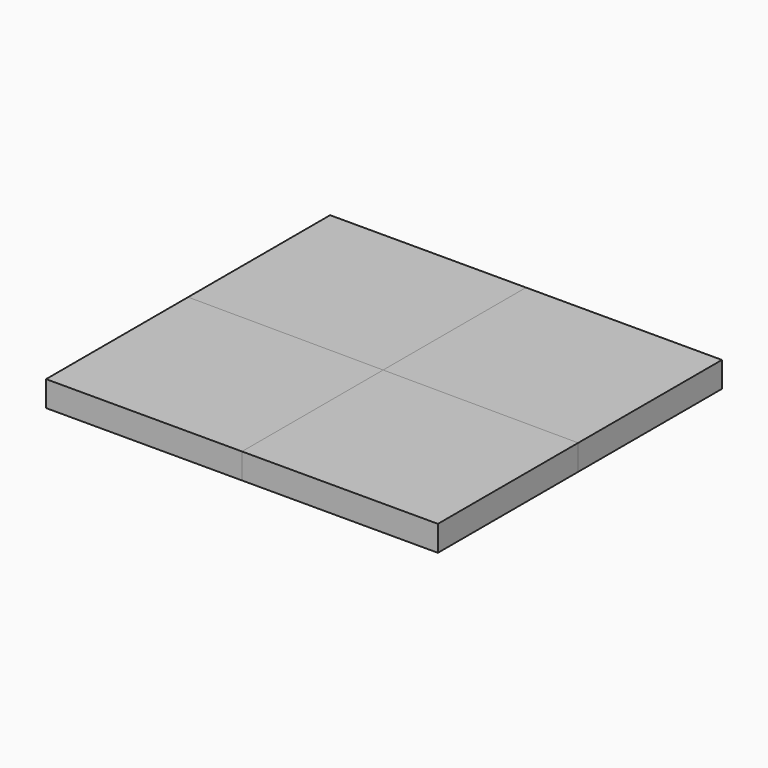
from build123d import *

# Parameters (mm, degrees)
F1_DEPTH = 6.35
F2_DEPTH = 6.35


with BuildPart() as f1:
    # F0 (on Top) → F1 (new body)
    with BuildSketch(Plane.XY):
        Polygon((0.808179, 44.719391), (-47.952123, 44.719391), (-47.952123, 0.538785), (0.808179, 0.269393), align=None)
        Polygon((49.568482, 0), (0.808179, 0.269393), (0.808179, -43.641821), (49.568482, -43.641821), align=None)
    extrude(amount=F1_DEPTH)


with BuildPart() as f2:
    # F0 (on Top) → F2 (new body)
    with BuildSketch(Plane.XY):
        Polygon((0.808179, 0.269393), (-47.952123, 0.538785), (-47.952123, -43.641821), (0.808179, -43.641821), align=None)
        Polygon((49.568482, 44.719391), (0.808179, 44.719391), (0.808179, 0.269393), (49.568482, 0), align=None)
    extrude(amount=F2_DEPTH)


solid = Compound([f1.part, f2.part])
